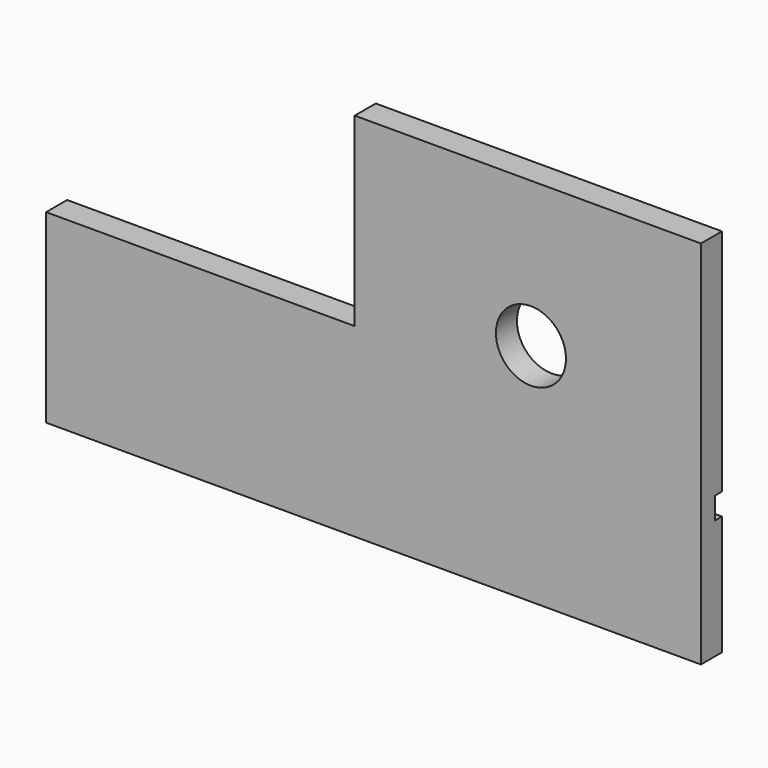
from build123d import *

# Parameters (mm, degrees)
F0_R     = 4
F1_DEPTH = 3
F2_W     = 74.763466
F2_H     = 2.5
F3_DEPTH = 1


with BuildPart() as f1:
    # F0 (on Front) → F1 (new body)
    with BuildSketch(Plane.XZ):
        Polygon((19.40632, 16.607143), (17.133475, 16.607143), (-14.732144, 16.607143), (-20.1159, 16.607143), (-20.1159, -4.553572), (-55.357146, -4.553572), (-55.357146, -25.714286), (17.133475, -25.714286), (19.40632, -25.714286), align=None)
        Circle(F0_R, mode=Mode.SUBTRACT)
    extrude(amount=F1_DEPTH)

    # F2 (on face) → F3 (cut)
    with BuildSketch(Plane(origin=(0, 0, 0), x_dir=(-1, 0, 0), z_dir=(0, 1, 0))):
        with Locations((17.975413, -10.803572)):
            Rectangle(F2_W, F2_H)
    extrude(amount=-F3_DEPTH, mode=Mode.SUBTRACT)


solid = f1.part
